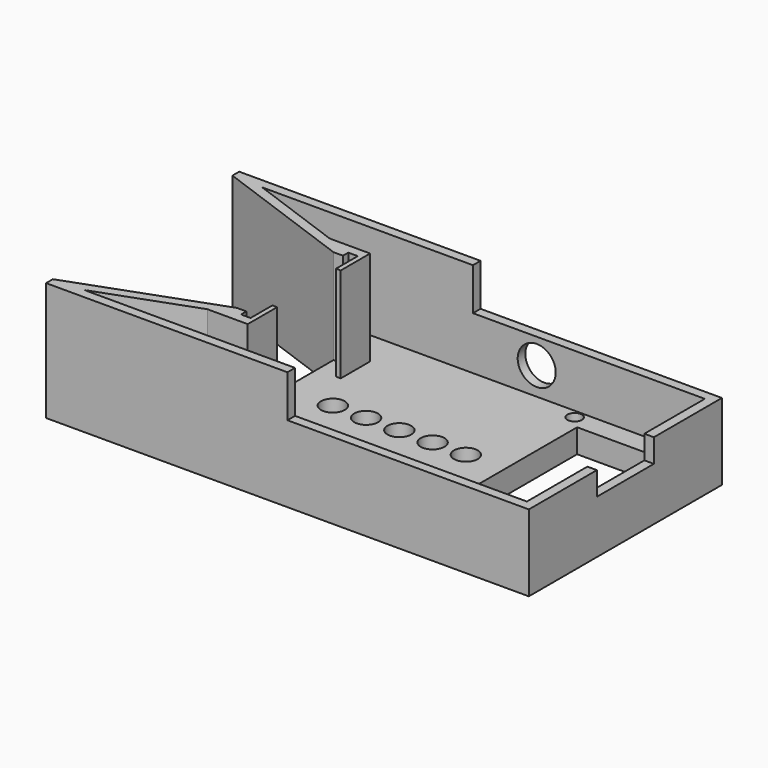
from build123d import *

# Parameters (mm, degrees)
F0_R     = 2.5
F0_R_2   = 1.524
F0_W     = 19.05
F0_H     = 38.1
F1_DEPTH = 5
F3_DEPTH = 20
F4_R     = 4
F5_DEPTH = 25.4
F6_W     = 50.8
F6_H     = 50.8
F7_DEPTH = 8.89
F8_W     = 15
F8_H     = 4.935952
F9_DEPTH = 25.4


with BuildPart() as f1:
    # F0 (on Top) → F1 (new body)
    with BuildSketch(Plane.XY):
        Polygon((50.8, 25.4), (-50.8, 25.4), (-50.8, 23.619107), (-20.8, 12.7), (-20.8, -12.7), (-50.8, -23.619107), (-50.8, -25.4), (50.8, -25.4), align=None)
        with Locations((-10.766795, 0)):
            Circle(F0_R, mode=Mode.SUBTRACT)
        with Locations((-3.766795, 0)):
            Circle(F0_R, mode=Mode.SUBTRACT)
        with Locations((22.86, -21.59)):
            Circle(F0_R_2, mode=Mode.SUBTRACT)
        with Locations((47.244, -21.59)):
            Circle(F0_R_2, mode=Mode.SUBTRACT)
        with Locations((3.233205, 0)):
            Circle(F0_R, mode=Mode.SUBTRACT)
        with Locations((10.233205, 0)):
            Circle(F0_R, mode=Mode.SUBTRACT)
        with Locations((17.233205, 0)):
            Circle(F0_R, mode=Mode.SUBTRACT)
        with Locations((34.925, 0)):
            Rectangle(F0_W, F0_H, mode=Mode.SUBTRACT)
        with Locations((22.86, 21.59)):
            Circle(F0_R_2, mode=Mode.SUBTRACT)
        with Locations((47.244, 21.59)):
            Circle(F0_R_2, mode=Mode.SUBTRACT)
    extrude(amount=F1_DEPTH)

    # F2 (on face) → F3 (join)
    with BuildSketch(Plane.XY.offset(5)):
        Polygon((50.8, -25.4), (50.8, 25.4), (-50.8, 25.4), (-50.8, 23.619107), (-20.8, 12.7), (-18.8, 12.7), (-18.8, 14.100415), (-16.8, 14.100415), (-16.8, 8.365211), (-15.8, 8.365211), (-15.8, 14.100415), (-15.8, 16.100415), (-24.294955, 16.100415), (-44.3504, 23.4), (48.8, 23.4), (48.8, -23.4), (-44.3504, -23.4), (-24.294955, -16.100415), (-15.8, -16.100415), (-15.8, -14.100415), (-15.8, -8.365211), (-16.8, -8.365211), (-16.8, -14.100415), (-18.8, -14.100415), (-18.8, -12.7), (-20.8, -12.7), (-50.8, -23.619107), (-50.8, -25.4), align=None)
    extrude(amount=F3_DEPTH)

    # F4 (on face) → F5 (cut)
    with BuildSketch(Plane.XZ.offset(-23.4)):
        with Locations((13.420951, 10.783263)):
            Circle(F4_R)
    extrude(amount=-F5_DEPTH, mode=Mode.SUBTRACT)

    # F6 (on face) → F7 (cut)
    with BuildSketch(Plane.XY.offset(25)):
        with Locations((25.4, 0)):
            Rectangle(F6_W, F6_H)
    extrude(amount=-F7_DEPTH, mode=Mode.SUBTRACT)

    # F8 (on face) → F9 (cut)
    with BuildSketch(Plane.YZ.offset(50.8)):
        with Locations((0, 13.642024)):
            Rectangle(F8_W, F8_H)
    extrude(amount=-F9_DEPTH, mode=Mode.SUBTRACT)


solid = f1.part
